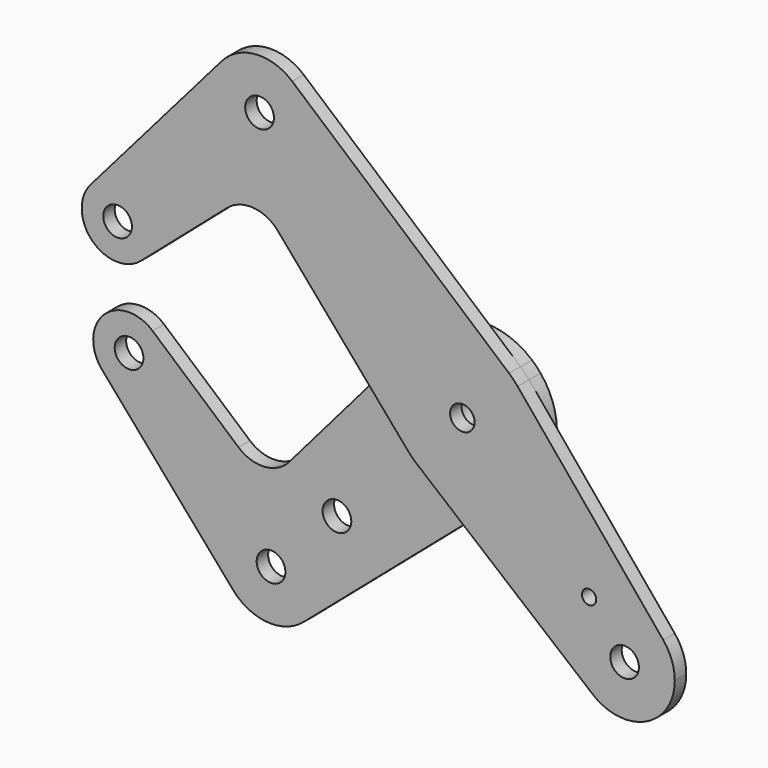
from build123d import *

# Parameters (mm, degrees)
F0_R     = 3.175
F0_R_2   = 2.7051
F0_R_3   = 1.5875
F1_DEPTH = 3.175
F2_DEPTH = 3.175


with BuildPart() as f1:
    # F0 (on Front) → F1 (new body)
    with BuildSketch(Plane.XZ):
        with BuildLine():
            ThreePointArc((-71.1347575644, 7.4711561347), (-69.1121208226, 10.1727039932), (-68.3946770291, 13.4703841816))
            ThreePointArc((-68.3946770291, 13.4703841816), (-73.5586383483, 20.9075469092), (-82.331405076, 18.6678036462))
            ThreePointArc((-82.331405076, 18.6678036462), (-81.9448371048, 7.8577241059), (-71.1347575644, 7.4711561347))
        make_face()
        with Locations((-76.3321770291, 13.4703841816)):
            Circle(F0_R, mode=Mode.SUBTRACT)
        with BuildLine():
            ThreePointArc((-37.655016822, 53.3262030046), (-45.7148756595, 55.9839571475), (-53.300199871, 52.1776678558))
            ThreePointArc((-53.300199871, 52.1776678558), (-56.0137627922, 44.9211777548), (-53.3262030046, 37.655016822))
            ThreePointArc((-53.3262030046, 37.655016822), (-41.0369756168, 34.4823169714), (-33.7887806053, 44.9012806053))
            ThreePointArc((-33.7887806053, 44.9012806053), (-34.8014845049, 49.5361241819), (-37.655016822, 53.3262030046))
        make_face()
        with Locations((-44.9012806053, 44.9012806053)):
            Circle(F0_R, mode=Mode.SUBTRACT)
        with BuildLine():
            ThreePointArc((-82.331405076, 18.6678036462), (-73.5586383483, 20.9075469092), (-68.3946770291, 13.4703841816))
            ThreePointArc((-68.3946770291, 13.4703841816), (-69.1121208226, 10.1727039932), (-71.1347575644, 7.4711561347))
            Line((-71.1347575644, 7.4711561347), (-52.0843267669, 23.9754595323))
            ThreePointArc((-52.0843267669, 23.9754595323), (-46.2965222838, 25.8954961667), (-40.8511612346, 23.1508168672))
            Line((-40.8511612346, 23.1508168672), (-53.3262030046, 37.655016822))
            ThreePointArc((-53.3262030046, 37.655016822), (-56.0137627922, 44.9211777548), (-53.300199871, 52.1776678558))
            Line((-53.300199871, 52.1776678558), (-82.331405076, 18.6678036462))
        make_face()
        with BuildLine():
            Line((-12.0356033823, 10.3518054572), (-20.9391765456, 0))
            Line((-20.9391765456, 0), (-12.0356034274, -10.3518054047))
            ThreePointArc((-12.0356034274, -10.3518054047), (-15.875, 3.46e-08), (-12.0356033823, 10.3518054572))
        make_face()
        with BuildLine():
            ThreePointArc((12.2282550252, 10.1235074968), (11.3304373246, 11.1192092809), (10.3518054047, 12.0356034274))
            ThreePointArc((10.3518054047, 12.0356034274), (-1.1906249655, 15.830288601), (-12.0356033823, 10.3518054572))
            ThreePointArc((-12.0356033823, 10.3518054572), (-15.875, 3.46e-08), (-12.0356034274, -10.3518054047))
            ThreePointArc((-12.0356034274, -10.3518054047), (-11.1192092809, -11.3304373246), (-10.1235074968, -12.2282550252))
            ThreePointArc((-10.1235074968, -12.2282550252), (0.1493610759, -15.8742973473), (10.3518058503, -12.0356030442))
            ThreePointArc((10.3518058503, -12.0356030442), (14.4282802661, -6.6212048423), (15.875, 0))
            ThreePointArc((15.875, 0), (14.9355142785, 5.3801522504), (12.2282550252, 10.1235074968))
        make_face()
        Circle(F0_R, mode=Mode.SUBTRACT)
        Circle(F0_R)
        Circle(F0_R_2, mode=Mode.SUBTRACT)
        with BuildLine():
            Line((44.4808030019, -28.8345692365), (12.2282550252, 10.1235074968))
            ThreePointArc((12.2282550252, 10.1235074968), (14.9355142785, 5.3801522504), (15.875, 0))
            ThreePointArc((15.875, 0), (14.4282802661, -6.6212048423), (10.3518058503, -12.0356030442))
            Line((10.3518058503, -12.0356030442), (0.1954344954, -20.7710836138))
            Line((0.1954344954, -20.7710836138), (28.8345692365, -44.4808030019))
            ThreePointArc((28.8345692365, -44.4808030019), (28.0633003783, -28.0633003783), (44.4808030019, -28.8345692365))
        make_face()
        with Locations((28.0488921947, -25.8038281644)):
            Circle(F0_R_3, mode=Mode.SUBTRACT)
        with BuildLine():
            ThreePointArc((10.3518058503, -12.0356030442), (0.1493610759, -15.8742973473), (-10.1235074968, -12.2282550252))
            Line((-10.1235074968, -12.2282550252), (0.1954344954, -20.7710836138))
            Line((0.1954344954, -20.7710836138), (10.3518058503, -12.0356030442))
        make_face()
        with BuildLine():
            ThreePointArc((47.0335244843, -35.9210244843), (46.3758844792, -32.154917909), (44.4808030019, -28.8345692365))
            ThreePointArc((44.4808030019, -28.8345692365), (28.0633003783, -28.0633003783), (28.8345692365, -44.4808030019))
            ThreePointArc((28.8345692365, -44.4808030019), (40.650687385, -45.9767663811), (47.0335244843, -35.9210244843))
        make_face()
        with Locations((35.9210244843, -35.9210244843)):
            Circle(F0_R, mode=Mode.SUBTRACT)
        with BuildLine():
            Line((10.3518054047, 12.0356034274), (-37.655016822, 53.3262030046))
            ThreePointArc((-37.655016822, 53.3262030046), (-34.8014845049, 49.5361241819), (-33.7887806053, 44.9012806053))
            ThreePointArc((-33.7887806053, 44.9012806053), (-41.0369756168, 34.4823169714), (-53.3262030046, 37.655016822))
            Line((-53.3262030046, 37.655016822), (-40.8511612346, 23.1508168672))
            Line((-40.8511612346, 23.1508168672), (-20.9391765456, 0))
            Line((-20.9391765456, 0), (-12.0356033823, 10.3518054572))
            ThreePointArc((-12.0356033823, 10.3518054572), (-1.1906249655, 15.830288601), (10.3518054047, 12.0356034274))
        make_face()
    extrude(amount=F1_DEPTH)


with BuildPart() as f2:
    # F0 (on Front) → F2 (new body)
    with BuildSketch(Plane.XZ):
        with BuildLine():
            ThreePointArc((-53.300199871, -52.1776678558), (-45.7148756595, -55.9839571475), (-37.655016822, -53.3262030046))
            ThreePointArc((-37.655016822, -53.3262030046), (-34.8014845049, -49.5361241819), (-33.7887806053, -44.9012806053))
            ThreePointArc((-33.7887806053, -44.9012806053), (-48.7842347585, -34.4892527868), (-53.300199871, -52.1776678558))
        make_face()
        with Locations((-44.9012806053, -44.9012806053)):
            Circle(F0_R, mode=Mode.SUBTRACT)
        with BuildLine():
            ThreePointArc((12.2282550252, 10.1235074968), (11.3304373246, 11.1192092809), (10.3518054047, 12.0356034274))
            ThreePointArc((10.3518054047, 12.0356034274), (-1.1906249655, 15.830288601), (-12.0356033823, 10.3518054572))
            ThreePointArc((-12.0356033823, 10.3518054572), (-15.875, 3.46e-08), (-12.0356034274, -10.3518054047))
            ThreePointArc((-12.0356034274, -10.3518054047), (-11.1192092809, -11.3304373246), (-10.1235074968, -12.2282550252))
            ThreePointArc((-10.1235074968, -12.2282550252), (0.1493610759, -15.8742973473), (10.3518058503, -12.0356030442))
            ThreePointArc((10.3518058503, -12.0356030442), (14.4282802661, -6.6212048423), (15.875, 0))
            ThreePointArc((15.875, 0), (14.9355142785, 5.3801522504), (12.2282550252, 10.1235074968))
        make_face()
        Circle(F0_R, mode=Mode.SUBTRACT)
        with BuildLine():
            Line((-12.0356033823, 10.3518054572), (-20.9391765456, 0))
            Line((-20.9391765456, 0), (-12.0356034274, -10.3518054047))
            ThreePointArc((-12.0356034274, -10.3518054047), (-15.875, 3.46e-08), (-12.0356033823, 10.3518054572))
        make_face()
        with BuildLine():
            ThreePointArc((10.3518058503, -12.0356030442), (0.1493610759, -15.8742973473), (-10.1235074968, -12.2282550252))
            Line((-10.1235074968, -12.2282550252), (0.1954344954, -20.7710836138))
            Line((0.1954344954, -20.7710836138), (10.3518058503, -12.0356030442))
        make_face()
        with BuildLine():
            ThreePointArc((-68.3946770291, -13.4703841816), (-69.1121208226, -10.1727039932), (-71.1347575644, -7.4711561347))
            ThreePointArc((-71.1347575644, -7.4711561347), (-81.9448371048, -7.8577241059), (-82.331405076, -18.6678036462))
            ThreePointArc((-82.331405076, -18.6678036462), (-73.5586383483, -20.9075469092), (-68.3946770291, -13.4703841816))
        make_face()
        with Locations((-76.3321770291, -13.4703841816)):
            Circle(F0_R, mode=Mode.SUBTRACT)
        with BuildLine():
            Line((-12.0356034274, -10.3518054047), (-20.9391765456, 0))
            Line((-20.9391765456, 0), (-40.8511612346, -23.1508168672))
            ThreePointArc((-40.8511612346, -23.1508168672), (-46.2965222838, -25.8954961667), (-52.0843267669, -23.9754595323))
            Line((-52.0843267669, -23.9754595323), (-71.1347575644, -7.4711561347))
            ThreePointArc((-71.1347575644, -7.4711561347), (-69.1121208226, -10.1727039932), (-68.3946770291, -13.4703841816))
            ThreePointArc((-68.3946770291, -13.4703841816), (-73.5586383483, -20.9075469092), (-82.331405076, -18.6678036462))
            Line((-82.331405076, -18.6678036462), (-53.300199871, -52.1776678558))
            ThreePointArc((-53.300199871, -52.1776678558), (-48.7842347585, -34.4892527868), (-33.7887806053, -44.9012806053))
            ThreePointArc((-33.7887806053, -44.9012806053), (-34.8014845049, -49.5361241819), (-37.655016822, -53.3262030046))
            Line((-37.655016822, -53.3262030046), (0.1954344954, -20.7710836138))
            Line((0.1954344954, -20.7710836138), (-10.1235074968, -12.2282550252))
            ThreePointArc((-10.1235074968, -12.2282550252), (-11.1192092809, -11.3304373246), (-12.0356034274, -10.3518054047))
        make_face()
        with Locations((-30.2993841525, -30.2993841525)):
            Circle(F0_R, mode=Mode.SUBTRACT)
    extrude(amount=-F2_DEPTH)


solid = Compound([f1.part, f2.part])
